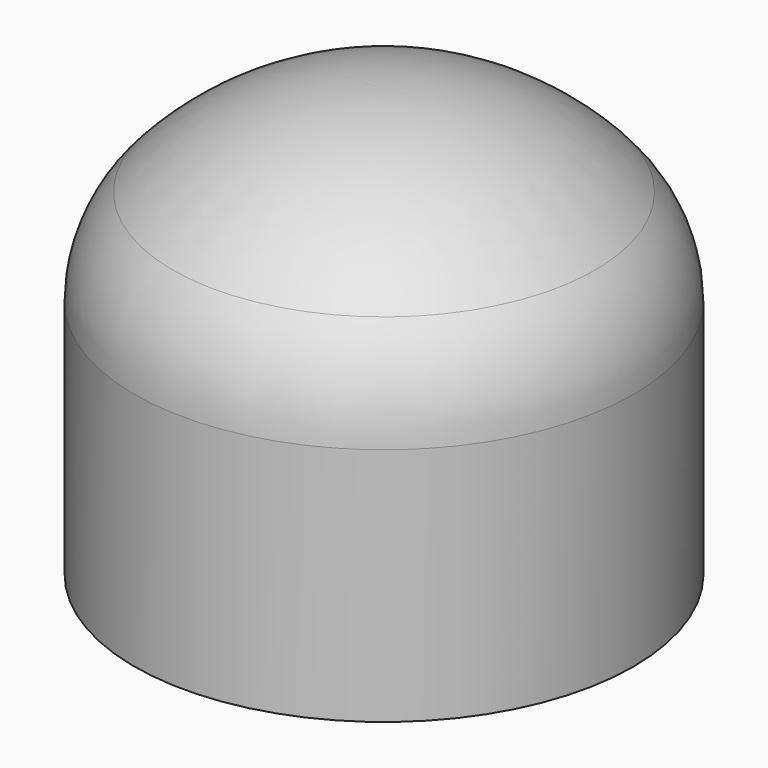
from build123d import *


with BuildPart() as f1:
    # F0 (on Front) → F1 (revolve)
    with BuildSketch(Plane.XZ):
        with BuildLine():
            Line((-1.75, -1.5), (0, -1.5))
            Line((0, -1.5), (0, 1.5))
            ThreePointArc((0, 1.5), (-0.808186, 1.337321), (-1.482097, 0.862481))
            ThreePointArc((-1.482097, 0.862481), (-1.680617, 0.547274), (-1.75, 0.18128))
            Line((-1.75, 0.18128), (-1.75, -1.5))
        make_face()
    revolve(axis=Axis((0, 0, 0.860381), (0, 0, -1)))


solid = f1.part
